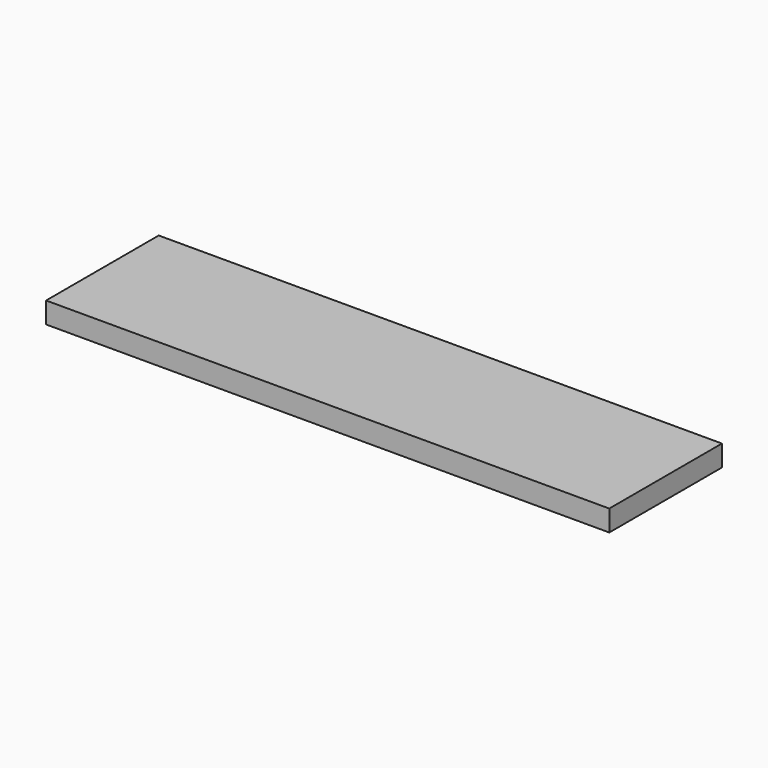
from build123d import *

# Parameters (mm, degrees)
SKETCH_W  = 80
SKETCH_H  = 20
PAD_DEPTH = 3


with BuildPart() as part:
    # Sketch → Pad (new body)
    with BuildSketch(Plane.XY):
        with Locations((0, 10)):
            Rectangle(SKETCH_W, SKETCH_H)
    extrude(amount=PAD_DEPTH)


solid = part.part
